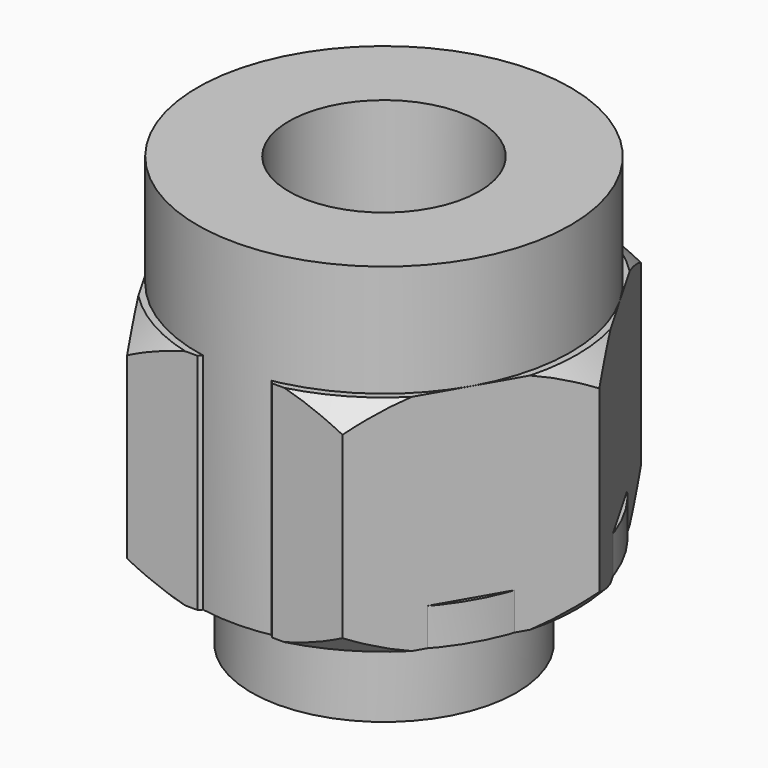
from build123d import *

# Parameters (mm, degrees)
F0_R      = 3.555
F0_R_2    = 2.5
F1_DEPTH  = 6.35
F2_DEPTH  = 1
F3_DEPTH  = 2.5
F6_R      = 3.555
F6_R_2    = 2.5
F7_DEPTH  = 2.5
F8_DEPTH  = 6
F11_R     = 5
F11_R_2   = 4
F11_R_3   = 2.5
F12_DEPTH = 1
F13_DEPTH = 1
F14_R     = 5
F14_R_2   = 2.55
F15_DEPTH = 6
F16_DEPTH = 3
F17_DEPTH = 9


with BuildPart() as f1:
    # F0 (on Top) → F1 (new body)
    with BuildSketch(Plane.XY):
        Polygon((2.2713800321, 3.935), (-2.2713800321, 3.935), (-4.5442400564, 0), (-2.2713800321, -3.935), (2.2713800321, -3.935), (4.5442400564, 0), align=None)
        Circle(F0_R, mode=Mode.SUBTRACT)
        Circle(F0_R)
        with Locations((0, -0.79)):
            Circle(F0_R_2, mode=Mode.SUBTRACT)
    extrude(amount=F1_DEPTH)

    # F0 (on Top) → F2 (join)
    with BuildSketch(Plane.XY):
        with BuildLine():
            Line((0, -4.2166089514), (1.94, -4.7166089514))
            ThreePointArc((1.94, -4.7166089514), (0, 5.1), (-1.94, -4.7166089514))
            Line((-1.94, -4.7166089514), (0, -4.2166089514))
        make_face()
        Polygon((-4.5442400564, 0), (-2.2713800321, 3.935), (2.2713800321, 3.935), (4.5442400564, 0), (2.2713800321, -3.935), (-2.2713800321, -3.935), align=None, mode=Mode.SUBTRACT)
    extrude(amount=F2_DEPTH)

    # F0 (on Top) → F3 (join)
    with BuildSketch(Plane.XY):
        Circle(F0_R)
        with Locations((0, -0.79)):
            Circle(F0_R_2, mode=Mode.SUBTRACT)
    extrude(amount=-F3_DEPTH)

    # F4 (on Front) → F5 (revolve, cut)
    with BuildSketch(Plane.XZ):
        Polygon((4.5442400564, 6.1), (4.5442400564, 6.35), (4.0442400564, 6.35), align=None)
    revolve(axis=Axis((0, 0, 3.175), (0, 0, 1)), mode=Mode.SUBTRACT)


with BuildPart() as f7:
    # F6 (on Top) → F7 (new body)
    with BuildSketch(Plane.XY):
        Circle(F6_R)
        with Locations((0, -0.79)):
            Circle(F6_R_2, mode=Mode.SUBTRACT)
    extrude(amount=-F7_DEPTH)

    # F6 (on Top) → F8 (join)
    with BuildSketch(Plane.XY):
        Polygon((2.8867513459, 5), (-2.8867513459, 5), (-5.7735026919, 0), (-2.8867513459, -5), (-1, -5), (0, -4), (1, -5), (2.8867513459, -5), (5.7735026919, 0), align=None)
        Circle(F6_R, mode=Mode.SUBTRACT)
        Circle(F6_R)
        with Locations((0, -0.79)):
            Circle(F6_R_2, mode=Mode.SUBTRACT)
    extrude(amount=F8_DEPTH)

    # F9 (on Front) → F10 (revolve, cut)
    with BuildSketch(Plane.XZ):
        Polygon((-5.1735026919, 6), (-5.7735026919, 6), (-5.7735026919, 5.4), align=None)
        Polygon((-5.1735026919, 0), (-5.7735026919, 0.6), (-5.7735026919, 0), align=None)
    revolve(axis=Axis((0, 0, 1), (0, 0, 1)), mode=Mode.SUBTRACT)


with BuildPart() as f12:
    # F11 (on Top) → F12 (new body)
    with BuildSketch(Plane.XY):
        Circle(F11_R)
        Circle(F11_R_2, mode=Mode.SUBTRACT)
        Circle(F11_R_2)
        Circle(F11_R_3, mode=Mode.SUBTRACT)
    extrude(amount=F12_DEPTH)


with BuildPart() as f13:
    # F11 (on Top) → F13 (new body)
    with BuildSketch(Plane.XY):
        Circle(F11_R_2)
        Circle(F11_R_3, mode=Mode.SUBTRACT)
    extrude(amount=F13_DEPTH)


with BuildPart() as f15:
    # F14 (on Top) → F15 (new body)
    with BuildSketch(Plane.XY):
        Circle(F14_R)
        Circle(F14_R_2, mode=Mode.SUBTRACT)
    extrude(amount=F15_DEPTH)


with BuildPart() as f16:
    # F14 (on Top) → F16 (new body)
    with BuildSketch(Plane.XY):
        Circle(F14_R)
        Circle(F14_R_2, mode=Mode.SUBTRACT)
    extrude(amount=F16_DEPTH)


with BuildPart() as f17:
    # F14 (on Top) → F17 (new body)
    with BuildSketch(Plane.XY):
        Circle(F14_R)
        Circle(F14_R_2, mode=Mode.SUBTRACT)
    extrude(amount=F17_DEPTH)


solid = Compound([f1.part, f7.part, f12.part, f13.part, f15.part, f16.part, f17.part])
